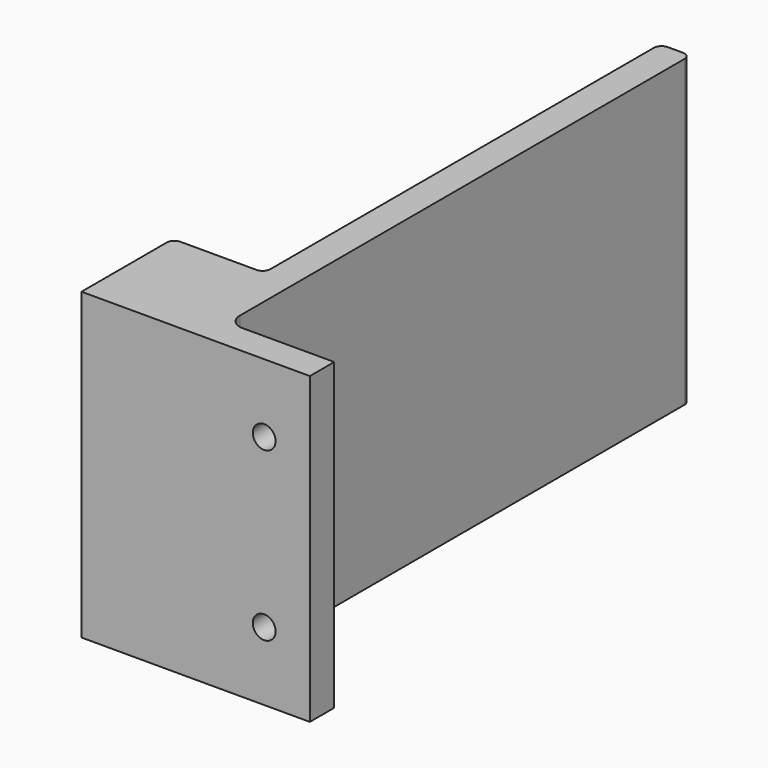
from build123d import *

# Parameters (mm, degrees)
PAD_DEPTH    = 40
FILLET_R     = 1
FILLET001_R  = 1
FILLET002_R  = 2
FILLET003_R  = 1
FILLET004_R  = 1
SKETCH001_R  = 1.5
POCKET_DEPTH = 5


with BuildPart() as part:
    # Sketch → Pad (new body)
    with BuildSketch(Plane.XY):
        Polygon((0, 0), (0, 15), (12, 15), (12, 80), (16, 80), (16, 4), (30, 4), (30, 0), align=None)
    extrude(amount=PAD_DEPTH)

    # Fillet
    fillet_edges = [part.edges().sort_by_distance(p)[0] for p in [
        (12, 80, 20),
    ]]
    fillet(fillet_edges, radius=FILLET_R)

    # Fillet001
    fillet001_edges = [part.edges().sort_by_distance(p)[0] for p in [
        (16, 80, 20),
    ]]
    fillet(fillet001_edges, radius=FILLET001_R)

    # Fillet002
    fillet002_edges = [part.edges().sort_by_distance(p)[0] for p in [
        (16, 4, 20),
    ]]
    fillet(fillet002_edges, radius=FILLET002_R)

    # Fillet003
    fillet003_edges = [part.edges().sort_by_distance(p)[0] for p in [
        (0, 15, 20),
    ]]
    fillet(fillet003_edges, radius=FILLET003_R)

    # Fillet004
    fillet004_edges = [part.edges().sort_by_distance(p)[0] for p in [
        (12, 15, 20),
    ]]
    fillet(fillet004_edges, radius=FILLET004_R)

    # Sketch001 (on Face12 of Fillet004) → Pocket (cut)
    with BuildSketch(Plane(origin=(0, 4, 0), x_dir=(-1, 0, 0), z_dir=(0, 1, 0))):
        with Locations((-24, 31)):
            Circle(SKETCH001_R)
        with Locations((-24, 9)):
            Circle(SKETCH001_R)
    extrude(amount=-POCKET_DEPTH, mode=Mode.SUBTRACT)


solid = part.part
